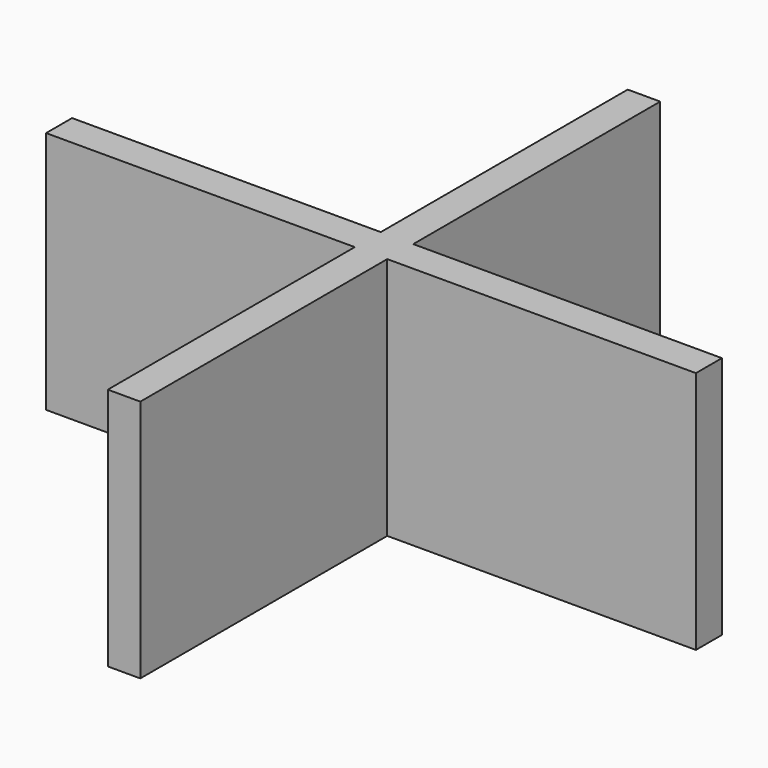
from build123d import *

# Parameters (mm, degrees)
F0_W     = 2.54
F0_H     = 24.13
F0_H_2   = 2.54
F0_W_2   = 24.13
F1_DEPTH = 19.05


with BuildPart() as f1:
    # F0 (on Top) → F1 (new body)
    with BuildSketch(Plane.XY):
        with Locations((-2.6919205397, 14.605)):
            Rectangle(F0_W, F0_H)
        with Locations((-2.6919205397, 1.27)):
            Rectangle(F0_W, F0_H_2)
        with Locations((-16.0269205397, 1.27)):
            Rectangle(F0_W_2, F0_H_2)
        with Locations((10.6430794603, 1.27)):
            Rectangle(F0_W_2, F0_H_2)
        with Locations((-2.6919205397, -12.065)):
            Rectangle(F0_W, F0_H)
    extrude(amount=F1_DEPTH)


solid = f1.part
